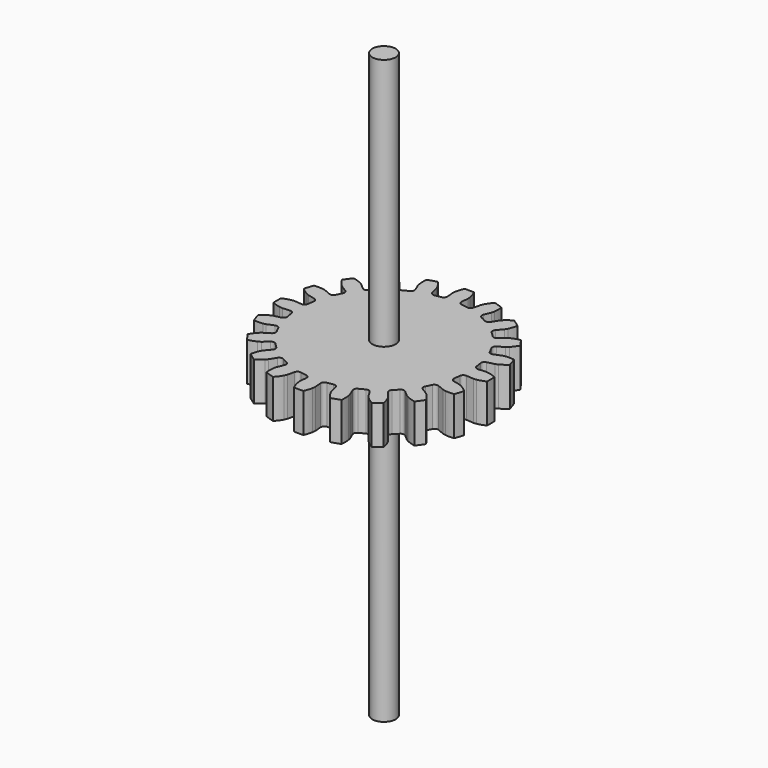
from build123d import *

# Parameters (mm, degrees)
PAD_DEPTH    = 10
SKETCH001_R  = 3.009992
PAD002_DEPTH = 75


with BuildPart() as pad:
    # InvoluteGear → Pad (new body)
    with BuildSketch(Plane.XY):
        with BuildLine():
            Line((22.719719, -1.829099), (24.571888, -1.977155))
            add(Edge.make_bspline(
                [(24.571888, -1.977155), (24.654648, -1.979657), (24.904537, -1.9789), (25.321937, -1.906817)],
                knots=[0, 0, 0, 0, 1, 1, 1, 1], degree=3))
            add(Edge.make_bspline(
                [(25.321937, -1.906817), (25.823029, -1.819379), (26.552046, -1.629661), (27.474158, -1.221762)],
                knots=[0, 0, 0, 0, 1, 1, 1, 1], degree=3))
            ThreePointArc((27.474158, -1.221762), (27.501312, 0), (27.474158, 1.221762))
            add(Edge.make_bspline(
                [(27.474158, 1.221762), (26.552046, 1.629661), (25.823029, 1.819379), (25.321937, 1.906817)],
                knots=[0, 0, 0, 0, 1, 1, 1, 1], degree=3))
            add(Edge.make_bspline(
                [(25.321937, 1.906817), (24.904537, 1.9789), (24.654648, 1.979657), (24.571888, 1.977155)],
                knots=[0, 0, 0, 0, 1, 1, 1, 1], degree=3))
            Line((24.571888, 1.977155), (22.719719, 1.829099))
            ThreePointArc((22.719719, 1.829099), (22.052006, 2.037028), (21.713984, 2.649251))
            ThreePointArc((21.713984, 2.649251), (21.605682, 3.422004), (21.469889, 4.190402))
            ThreePointArc((21.469889, 4.190402), (21.60218, 4.877116), (22.17296, 5.281202))
            Line((22.17296, 5.281202), (23.980228, 5.712745))
            add(Edge.make_bspline(
                [(23.980228, 5.712745), (24.059711, 5.73594), (24.297136, 5.813879), (24.671832, 6.011418)],
                knots=[0, 0, 0, 0, 1, 1, 1, 1], degree=3))
            add(Edge.make_bspline(
                [(24.671832, 6.011418), (25.121379, 6.249423), (25.756089, 6.655134), (26.507023, 7.328017)],
                knots=[0, 0, 0, 0, 1, 1, 1, 1], degree=3))
            ThreePointArc((26.507023, 7.328017), (26.155302, 8.498373), (25.751932, 9.651947))
            add(Edge.make_bspline(
                [(25.751932, 9.651947), (24.748904, 9.754933), (23.996942, 9.710087), (23.493354, 9.6384)],
                knots=[0, 0, 0, 0, 1, 1, 1, 1], degree=3))
            add(Edge.make_bspline(
                [(23.493354, 9.6384), (23.074108, 9.577971), (22.836216, 9.501471), (22.758279, 9.473517)],
                knots=[0, 0, 0, 0, 1, 1, 1, 1], degree=3))
            Line((22.758279, 9.473517), (21.042514, 8.760356))
            ThreePointArc((21.042514, 8.760356), (20.343227, 8.751773), (19.832562, 9.229578))
            ThreePointArc((19.832562, 9.229578), (19.490768, 9.931042), (19.124173, 10.61987))
            ThreePointArc((19.124173, 10.61987), (19.037782, 11.313853), (19.455757, 11.874543))
            Line((19.455757, 11.874543), (21.041217, 12.843441))
            add(Edge.make_bspline(
                [(21.041217, 12.843441), (21.109642, 12.890063), (21.311362, 13.037556), (21.606677, 13.341214)],
                knots=[0, 0, 0, 0, 1, 1, 1, 1], degree=3))
            add(Edge.make_bspline(
                [(21.606677, 13.341214), (21.960674, 13.706488), (22.438947, 14.288478), (22.945195, 15.160479)],
                knots=[0, 0, 0, 0, 1, 1, 1, 1], degree=3))
            ThreePointArc((22.945195, 15.160479), (22.249029, 16.164865), (21.508927, 17.137331))
            add(Edge.make_bspline(
                [(21.508927, 17.137331), (20.523166, 16.925324), (19.821866, 16.650304), (19.365078, 16.426509)],
                knots=[0, 0, 0, 0, 1, 1, 1, 1], degree=3))
            add(Edge.make_bspline(
                [(19.365078, 16.426509), (18.985025, 16.239484), (18.782417, 16.093214), (18.716932, 16.042545)],
                knots=[0, 0, 0, 0, 1, 1, 1, 1], degree=3))
            Line((18.716932, 16.042545), (17.305521, 14.834088))
            ThreePointArc((17.305521, 14.834088), (16.643112, 14.609834), (16.009791, 14.906449))
            ThreePointArc((16.009791, 14.906449), (15.467961, 15.467961), (14.906449, 16.009791))
            ThreePointArc((14.906449, 16.009791), (14.609834, 16.643112), (14.834088, 17.305521))
            Line((14.834088, 17.305521), (16.042545, 18.716932))
            add(Edge.make_bspline(
                [(16.042545, 18.716932), (16.093214, 18.782417), (16.239484, 18.985025), (16.426509, 19.365078)],
                knots=[0, 0, 0, 0, 1, 1, 1, 1], degree=3))
            add(Edge.make_bspline(
                [(16.426509, 19.365078), (16.650304, 19.821866), (16.925324, 20.523166), (17.137331, 21.508927)],
                knots=[0, 0, 0, 0, 1, 1, 1, 1], degree=3))
            ThreePointArc((17.137331, 21.508927), (16.164865, 22.249029), (15.160479, 22.945195))
            add(Edge.make_bspline(
                [(15.160479, 22.945195), (14.288478, 22.438947), (13.706488, 21.960674), (13.341214, 21.606677)],
                knots=[0, 0, 0, 0, 1, 1, 1, 1], degree=3))
            add(Edge.make_bspline(
                [(13.341214, 21.606677), (13.037556, 21.311362), (12.890063, 21.109642), (12.843441, 21.041217)],
                knots=[0, 0, 0, 0, 1, 1, 1, 1], degree=3))
            Line((12.843441, 21.041217), (11.874543, 19.455757))
            ThreePointArc((11.874543, 19.455757), (11.313853, 19.037782), (10.61987, 19.124173))
            ThreePointArc((10.61987, 19.124173), (9.931042, 19.490768), (9.229578, 19.832562))
            ThreePointArc((9.229578, 19.832562), (8.751773, 20.343227), (8.760356, 21.042514))
            Line((8.760356, 21.042514), (9.473517, 22.758279))
            add(Edge.make_bspline(
                [(9.473517, 22.758279), (9.501471, 22.836216), (9.577971, 23.074108), (9.6384, 23.493354)],
                knots=[0, 0, 0, 0, 1, 1, 1, 1], degree=3))
            add(Edge.make_bspline(
                [(9.6384, 23.493354), (9.710087, 23.996942), (9.754933, 24.748904), (9.651947, 25.751932)],
                knots=[0, 0, 0, 0, 1, 1, 1, 1], degree=3))
            ThreePointArc((9.651947, 25.751932), (8.498373, 26.155302), (7.328017, 26.507023))
            add(Edge.make_bspline(
                [(7.328017, 26.507023), (6.655134, 25.756089), (6.249423, 25.121379), (6.011418, 24.671832)],
                knots=[0, 0, 0, 0, 1, 1, 1, 1], degree=3))
            add(Edge.make_bspline(
                [(6.011418, 24.671832), (5.813879, 24.297136), (5.73594, 24.059711), (5.712745, 23.980228)],
                knots=[0, 0, 0, 0, 1, 1, 1, 1], degree=3))
            Line((5.712745, 23.980228), (5.281202, 22.17296))
            ThreePointArc((5.281202, 22.17296), (4.877116, 21.60218), (4.190402, 21.469889))
            ThreePointArc((4.190402, 21.469889), (3.422004, 21.605682), (2.649251, 21.713984))
            ThreePointArc((2.649251, 21.713984), (2.037028, 22.052006), (1.829099, 22.719719))
            Line((1.829099, 22.719719), (1.977155, 24.571888))
            add(Edge.make_bspline(
                [(1.977155, 24.571888), (1.979657, 24.654648), (1.9789, 24.904537), (1.906817, 25.321937)],
                knots=[0, 0, 0, 0, 1, 1, 1, 1], degree=3))
            add(Edge.make_bspline(
                [(1.906817, 25.321937), (1.819379, 25.823029), (1.629661, 26.552046), (1.221762, 27.474158)],
                knots=[0, 0, 0, 0, 1, 1, 1, 1], degree=3))
            ThreePointArc((1.221762, 27.474158), (0, 27.501312), (-1.221762, 27.474158))
            add(Edge.make_bspline(
                [(-1.221762, 27.474158), (-1.629661, 26.552046), (-1.819379, 25.823029), (-1.906817, 25.321937)],
                knots=[0, 0, 0, 0, 1, 1, 1, 1], degree=3))
            add(Edge.make_bspline(
                [(-1.906817, 25.321937), (-1.9789, 24.904537), (-1.979657, 24.654648), (-1.977155, 24.571888)],
                knots=[0, 0, 0, 0, 1, 1, 1, 1], degree=3))
            Line((-1.977155, 24.571888), (-1.829099, 22.719719))
            ThreePointArc((-1.829099, 22.719719), (-2.037028, 22.052006), (-2.649251, 21.713984))
            ThreePointArc((-2.649251, 21.713984), (-3.422004, 21.605682), (-4.190402, 21.469889))
            ThreePointArc((-4.190402, 21.469889), (-4.877116, 21.60218), (-5.281202, 22.17296))
            Line((-5.281202, 22.17296), (-5.712745, 23.980228))
            add(Edge.make_bspline(
                [(-5.712745, 23.980228), (-5.73594, 24.059711), (-5.813879, 24.297136), (-6.011418, 24.671832)],
                knots=[0, 0, 0, 0, 1, 1, 1, 1], degree=3))
            add(Edge.make_bspline(
                [(-6.011418, 24.671832), (-6.249423, 25.121379), (-6.655134, 25.756089), (-7.328017, 26.507023)],
                knots=[0, 0, 0, 0, 1, 1, 1, 1], degree=3))
            ThreePointArc((-7.328017, 26.507023), (-8.498373, 26.155302), (-9.651947, 25.751932))
            add(Edge.make_bspline(
                [(-9.651947, 25.751932), (-9.754933, 24.748904), (-9.710087, 23.996942), (-9.6384, 23.493354)],
                knots=[0, 0, 0, 0, 1, 1, 1, 1], degree=3))
            add(Edge.make_bspline(
                [(-9.6384, 23.493354), (-9.577971, 23.074108), (-9.501471, 22.836216), (-9.473517, 22.758279)],
                knots=[0, 0, 0, 0, 1, 1, 1, 1], degree=3))
            Line((-9.473517, 22.758279), (-8.760356, 21.042514))
            ThreePointArc((-8.760356, 21.042514), (-8.751773, 20.343227), (-9.229578, 19.832562))
            ThreePointArc((-9.229578, 19.832562), (-9.931042, 19.490768), (-10.61987, 19.124173))
            ThreePointArc((-10.61987, 19.124173), (-11.313853, 19.037782), (-11.874543, 19.455757))
            Line((-11.874543, 19.455757), (-12.843441, 21.041217))
            add(Edge.make_bspline(
                [(-12.843441, 21.041217), (-12.890063, 21.109642), (-13.037556, 21.311362), (-13.341214, 21.606677)],
                knots=[0, 0, 0, 0, 1, 1, 1, 1], degree=3))
            add(Edge.make_bspline(
                [(-13.341214, 21.606677), (-13.706488, 21.960674), (-14.288478, 22.438947), (-15.160479, 22.945195)],
                knots=[0, 0, 0, 0, 1, 1, 1, 1], degree=3))
            ThreePointArc((-15.160479, 22.945195), (-16.164865, 22.249029), (-17.137331, 21.508927))
            add(Edge.make_bspline(
                [(-17.137331, 21.508927), (-16.925324, 20.523166), (-16.650304, 19.821866), (-16.426509, 19.365078)],
                knots=[0, 0, 0, 0, 1, 1, 1, 1], degree=3))
            add(Edge.make_bspline(
                [(-16.426509, 19.365078), (-16.239484, 18.985025), (-16.093214, 18.782417), (-16.042545, 18.716932)],
                knots=[0, 0, 0, 0, 1, 1, 1, 1], degree=3))
            Line((-16.042545, 18.716932), (-14.834088, 17.305521))
            ThreePointArc((-14.834088, 17.305521), (-14.609834, 16.643112), (-14.906449, 16.009791))
            ThreePointArc((-14.906449, 16.009791), (-15.467961, 15.467961), (-16.009791, 14.906449))
            ThreePointArc((-16.009791, 14.906449), (-16.643112, 14.609834), (-17.305521, 14.834088))
            Line((-17.305521, 14.834088), (-18.716932, 16.042545))
            add(Edge.make_bspline(
                [(-18.716932, 16.042545), (-18.782417, 16.093214), (-18.985025, 16.239484), (-19.365078, 16.426509)],
                knots=[0, 0, 0, 0, 1, 1, 1, 1], degree=3))
            add(Edge.make_bspline(
                [(-19.365078, 16.426509), (-19.821866, 16.650304), (-20.523166, 16.925324), (-21.508927, 17.137331)],
                knots=[0, 0, 0, 0, 1, 1, 1, 1], degree=3))
            ThreePointArc((-21.508927, 17.137331), (-22.249029, 16.164865), (-22.945195, 15.160479))
            add(Edge.make_bspline(
                [(-22.945195, 15.160479), (-22.438947, 14.288478), (-21.960674, 13.706488), (-21.606677, 13.341214)],
                knots=[0, 0, 0, 0, 1, 1, 1, 1], degree=3))
            add(Edge.make_bspline(
                [(-21.606677, 13.341214), (-21.311362, 13.037556), (-21.109642, 12.890063), (-21.041217, 12.843441)],
                knots=[0, 0, 0, 0, 1, 1, 1, 1], degree=3))
            Line((-21.041217, 12.843441), (-19.455757, 11.874543))
            ThreePointArc((-19.455757, 11.874543), (-19.037782, 11.313853), (-19.124173, 10.61987))
            ThreePointArc((-19.124173, 10.61987), (-19.490768, 9.931042), (-19.832562, 9.229578))
            ThreePointArc((-19.832562, 9.229578), (-20.343227, 8.751773), (-21.042514, 8.760356))
            Line((-21.042514, 8.760356), (-22.758279, 9.473517))
            add(Edge.make_bspline(
                [(-22.758279, 9.473517), (-22.836216, 9.501471), (-23.074108, 9.577971), (-23.493354, 9.6384)],
                knots=[0, 0, 0, 0, 1, 1, 1, 1], degree=3))
            add(Edge.make_bspline(
                [(-23.493354, 9.6384), (-23.996942, 9.710087), (-24.748904, 9.754933), (-25.751932, 9.651947)],
                knots=[0, 0, 0, 0, 1, 1, 1, 1], degree=3))
            ThreePointArc((-25.751932, 9.651947), (-26.155302, 8.498373), (-26.507023, 7.328017))
            add(Edge.make_bspline(
                [(-26.507023, 7.328017), (-25.756089, 6.655134), (-25.121379, 6.249423), (-24.671832, 6.011418)],
                knots=[0, 0, 0, 0, 1, 1, 1, 1], degree=3))
            add(Edge.make_bspline(
                [(-24.671832, 6.011418), (-24.297136, 5.813879), (-24.059711, 5.73594), (-23.980228, 5.712745)],
                knots=[0, 0, 0, 0, 1, 1, 1, 1], degree=3))
            Line((-23.980228, 5.712745), (-22.17296, 5.281202))
            ThreePointArc((-22.17296, 5.281202), (-21.60218, 4.877116), (-21.469889, 4.190402))
            ThreePointArc((-21.469889, 4.190402), (-21.605682, 3.422004), (-21.713984, 2.649251))
            ThreePointArc((-21.713984, 2.649251), (-22.052006, 2.037028), (-22.719719, 1.829099))
            Line((-22.719719, 1.829099), (-24.571888, 1.977155))
            add(Edge.make_bspline(
                [(-24.571888, 1.977155), (-24.654648, 1.979657), (-24.904537, 1.9789), (-25.321937, 1.906817)],
                knots=[0, 0, 0, 0, 1, 1, 1, 1], degree=3))
            add(Edge.make_bspline(
                [(-25.321937, 1.906817), (-25.823029, 1.819379), (-26.552046, 1.629661), (-27.474158, 1.221762)],
                knots=[0, 0, 0, 0, 1, 1, 1, 1], degree=3))
            ThreePointArc((-27.474158, 1.221762), (-27.501312, 0), (-27.474158, -1.221762))
            add(Edge.make_bspline(
                [(-27.474158, -1.221762), (-26.552046, -1.629661), (-25.823029, -1.819379), (-25.321937, -1.906817)],
                knots=[0, 0, 0, 0, 1, 1, 1, 1], degree=3))
            add(Edge.make_bspline(
                [(-25.321937, -1.906817), (-24.904537, -1.9789), (-24.654648, -1.979657), (-24.571888, -1.977155)],
                knots=[0, 0, 0, 0, 1, 1, 1, 1], degree=3))
            Line((-24.571888, -1.977155), (-22.719719, -1.829099))
            ThreePointArc((-22.719719, -1.829099), (-22.052006, -2.037028), (-21.713984, -2.649251))
            ThreePointArc((-21.713984, -2.649251), (-21.605682, -3.422004), (-21.469889, -4.190402))
            ThreePointArc((-21.469889, -4.190402), (-21.60218, -4.877116), (-22.17296, -5.281202))
            Line((-22.17296, -5.281202), (-23.980228, -5.712745))
            add(Edge.make_bspline(
                [(-23.980228, -5.712745), (-24.059711, -5.73594), (-24.297136, -5.813879), (-24.671832, -6.011418)],
                knots=[0, 0, 0, 0, 1, 1, 1, 1], degree=3))
            add(Edge.make_bspline(
                [(-24.671832, -6.011418), (-25.121379, -6.249423), (-25.756089, -6.655134), (-26.507023, -7.328017)],
                knots=[0, 0, 0, 0, 1, 1, 1, 1], degree=3))
            ThreePointArc((-26.507023, -7.328017), (-26.155302, -8.498373), (-25.751932, -9.651947))
            add(Edge.make_bspline(
                [(-25.751932, -9.651947), (-24.748904, -9.754933), (-23.996942, -9.710087), (-23.493354, -9.6384)],
                knots=[0, 0, 0, 0, 1, 1, 1, 1], degree=3))
            add(Edge.make_bspline(
                [(-23.493354, -9.6384), (-23.074108, -9.577971), (-22.836216, -9.501471), (-22.758279, -9.473517)],
                knots=[0, 0, 0, 0, 1, 1, 1, 1], degree=3))
            Line((-22.758279, -9.473517), (-21.042514, -8.760356))
            ThreePointArc((-21.042514, -8.760356), (-20.343227, -8.751773), (-19.832562, -9.229578))
            ThreePointArc((-19.832562, -9.229578), (-19.490768, -9.931042), (-19.124173, -10.61987))
            ThreePointArc((-19.124173, -10.61987), (-19.037782, -11.313853), (-19.455757, -11.874543))
            Line((-19.455757, -11.874543), (-21.041217, -12.843441))
            add(Edge.make_bspline(
                [(-21.041217, -12.843441), (-21.109642, -12.890063), (-21.311362, -13.037556), (-21.606677, -13.341214)],
                knots=[0, 0, 0, 0, 1, 1, 1, 1], degree=3))
            add(Edge.make_bspline(
                [(-21.606677, -13.341214), (-21.960674, -13.706488), (-22.438947, -14.288478), (-22.945195, -15.160479)],
                knots=[0, 0, 0, 0, 1, 1, 1, 1], degree=3))
            ThreePointArc((-22.945195, -15.160479), (-22.249029, -16.164865), (-21.508927, -17.137331))
            add(Edge.make_bspline(
                [(-21.508927, -17.137331), (-20.523166, -16.925324), (-19.821866, -16.650304), (-19.365078, -16.426509)],
                knots=[0, 0, 0, 0, 1, 1, 1, 1], degree=3))
            add(Edge.make_bspline(
                [(-19.365078, -16.426509), (-18.985025, -16.239484), (-18.782417, -16.093214), (-18.716932, -16.042545)],
                knots=[0, 0, 0, 0, 1, 1, 1, 1], degree=3))
            Line((-18.716932, -16.042545), (-17.305521, -14.834088))
            ThreePointArc((-17.305521, -14.834088), (-16.643112, -14.609834), (-16.009791, -14.906449))
            ThreePointArc((-16.009791, -14.906449), (-15.467961, -15.467961), (-14.906449, -16.009791))
            ThreePointArc((-14.906449, -16.009791), (-14.609834, -16.643112), (-14.834088, -17.305521))
            Line((-14.834088, -17.305521), (-16.042545, -18.716932))
            add(Edge.make_bspline(
                [(-16.042545, -18.716932), (-16.093214, -18.782417), (-16.239484, -18.985025), (-16.426509, -19.365078)],
                knots=[0, 0, 0, 0, 1, 1, 1, 1], degree=3))
            add(Edge.make_bspline(
                [(-16.426509, -19.365078), (-16.650304, -19.821866), (-16.925324, -20.523166), (-17.137331, -21.508927)],
                knots=[0, 0, 0, 0, 1, 1, 1, 1], degree=3))
            ThreePointArc((-17.137331, -21.508927), (-16.164865, -22.249029), (-15.160479, -22.945195))
            add(Edge.make_bspline(
                [(-15.160479, -22.945195), (-14.288478, -22.438947), (-13.706488, -21.960674), (-13.341214, -21.606677)],
                knots=[0, 0, 0, 0, 1, 1, 1, 1], degree=3))
            add(Edge.make_bspline(
                [(-13.341214, -21.606677), (-13.037556, -21.311362), (-12.890063, -21.109642), (-12.843441, -21.041217)],
                knots=[0, 0, 0, 0, 1, 1, 1, 1], degree=3))
            Line((-12.843441, -21.041217), (-11.874543, -19.455757))
            ThreePointArc((-11.874543, -19.455757), (-11.313853, -19.037782), (-10.61987, -19.124173))
            ThreePointArc((-10.61987, -19.124173), (-9.931042, -19.490768), (-9.229578, -19.832562))
            ThreePointArc((-9.229578, -19.832562), (-8.751773, -20.343227), (-8.760356, -21.042514))
            Line((-8.760356, -21.042514), (-9.473517, -22.758279))
            add(Edge.make_bspline(
                [(-9.473517, -22.758279), (-9.501471, -22.836216), (-9.577971, -23.074108), (-9.6384, -23.493354)],
                knots=[0, 0, 0, 0, 1, 1, 1, 1], degree=3))
            add(Edge.make_bspline(
                [(-9.6384, -23.493354), (-9.710087, -23.996942), (-9.754933, -24.748904), (-9.651947, -25.751932)],
                knots=[0, 0, 0, 0, 1, 1, 1, 1], degree=3))
            ThreePointArc((-9.651947, -25.751932), (-8.498373, -26.155302), (-7.328017, -26.507023))
            add(Edge.make_bspline(
                [(-7.328017, -26.507023), (-6.655134, -25.756089), (-6.249423, -25.121379), (-6.011418, -24.671832)],
                knots=[0, 0, 0, 0, 1, 1, 1, 1], degree=3))
            add(Edge.make_bspline(
                [(-6.011418, -24.671832), (-5.813879, -24.297136), (-5.73594, -24.059711), (-5.712745, -23.980228)],
                knots=[0, 0, 0, 0, 1, 1, 1, 1], degree=3))
            Line((-5.712745, -23.980228), (-5.281202, -22.17296))
            ThreePointArc((-5.281202, -22.17296), (-4.877116, -21.60218), (-4.190402, -21.469889))
            ThreePointArc((-4.190402, -21.469889), (-3.422004, -21.605682), (-2.649251, -21.713984))
            ThreePointArc((-2.649251, -21.713984), (-2.037028, -22.052006), (-1.829099, -22.719719))
            Line((-1.829099, -22.719719), (-1.977155, -24.571888))
            add(Edge.make_bspline(
                [(-1.977155, -24.571888), (-1.979657, -24.654648), (-1.9789, -24.904537), (-1.906817, -25.321937)],
                knots=[0, 0, 0, 0, 1, 1, 1, 1], degree=3))
            add(Edge.make_bspline(
                [(-1.906817, -25.321937), (-1.819379, -25.823029), (-1.629661, -26.552046), (-1.221762, -27.474158)],
                knots=[0, 0, 0, 0, 1, 1, 1, 1], degree=3))
            ThreePointArc((-1.221762, -27.474158), (0, -27.501312), (1.221762, -27.474158))
            add(Edge.make_bspline(
                [(1.221762, -27.474158), (1.629661, -26.552046), (1.819379, -25.823029), (1.906817, -25.321937)],
                knots=[0, 0, 0, 0, 1, 1, 1, 1], degree=3))
            add(Edge.make_bspline(
                [(1.906817, -25.321937), (1.9789, -24.904537), (1.979657, -24.654648), (1.977155, -24.571888)],
                knots=[0, 0, 0, 0, 1, 1, 1, 1], degree=3))
            Line((1.977155, -24.571888), (1.829099, -22.719719))
            ThreePointArc((1.829099, -22.719719), (2.037028, -22.052006), (2.649251, -21.713984))
            ThreePointArc((2.649251, -21.713984), (3.422004, -21.605682), (4.190402, -21.469889))
            ThreePointArc((4.190402, -21.469889), (4.877116, -21.60218), (5.281202, -22.17296))
            Line((5.281202, -22.17296), (5.712745, -23.980228))
            add(Edge.make_bspline(
                [(5.712745, -23.980228), (5.73594, -24.059711), (5.813879, -24.297136), (6.011418, -24.671832)],
                knots=[0, 0, 0, 0, 1, 1, 1, 1], degree=3))
            add(Edge.make_bspline(
                [(6.011418, -24.671832), (6.249423, -25.121379), (6.655134, -25.756089), (7.328017, -26.507023)],
                knots=[0, 0, 0, 0, 1, 1, 1, 1], degree=3))
            ThreePointArc((7.328017, -26.507023), (8.498373, -26.155302), (9.651947, -25.751932))
            add(Edge.make_bspline(
                [(9.651947, -25.751932), (9.754933, -24.748904), (9.710087, -23.996942), (9.6384, -23.493354)],
                knots=[0, 0, 0, 0, 1, 1, 1, 1], degree=3))
            add(Edge.make_bspline(
                [(9.6384, -23.493354), (9.577971, -23.074108), (9.501471, -22.836216), (9.473517, -22.758279)],
                knots=[0, 0, 0, 0, 1, 1, 1, 1], degree=3))
            Line((9.473517, -22.758279), (8.760356, -21.042514))
            ThreePointArc((8.760356, -21.042514), (8.751773, -20.343227), (9.229578, -19.832562))
            ThreePointArc((9.229578, -19.832562), (9.931042, -19.490768), (10.61987, -19.124173))
            ThreePointArc((10.61987, -19.124173), (11.313853, -19.037782), (11.874543, -19.455757))
            Line((11.874543, -19.455757), (12.843441, -21.041217))
            add(Edge.make_bspline(
                [(12.843441, -21.041217), (12.890063, -21.109642), (13.037556, -21.311362), (13.341214, -21.606677)],
                knots=[0, 0, 0, 0, 1, 1, 1, 1], degree=3))
            add(Edge.make_bspline(
                [(13.341214, -21.606677), (13.706488, -21.960674), (14.288478, -22.438947), (15.160479, -22.945195)],
                knots=[0, 0, 0, 0, 1, 1, 1, 1], degree=3))
            ThreePointArc((15.160479, -22.945195), (16.164865, -22.249029), (17.137331, -21.508927))
            add(Edge.make_bspline(
                [(17.137331, -21.508927), (16.925324, -20.523166), (16.650304, -19.821866), (16.426509, -19.365078)],
                knots=[0, 0, 0, 0, 1, 1, 1, 1], degree=3))
            add(Edge.make_bspline(
                [(16.426509, -19.365078), (16.239484, -18.985025), (16.093214, -18.782417), (16.042545, -18.716932)],
                knots=[0, 0, 0, 0, 1, 1, 1, 1], degree=3))
            Line((16.042545, -18.716932), (14.834088, -17.305521))
            ThreePointArc((14.834088, -17.305521), (14.609834, -16.643112), (14.906449, -16.009791))
            ThreePointArc((14.906449, -16.009791), (15.467961, -15.467961), (16.009791, -14.906449))
            ThreePointArc((16.009791, -14.906449), (16.643112, -14.609834), (17.305521, -14.834088))
            Line((17.305521, -14.834088), (18.716932, -16.042545))
            add(Edge.make_bspline(
                [(18.716932, -16.042545), (18.782417, -16.093214), (18.985025, -16.239484), (19.365078, -16.426509)],
                knots=[0, 0, 0, 0, 1, 1, 1, 1], degree=3))
            add(Edge.make_bspline(
                [(19.365078, -16.426509), (19.821866, -16.650304), (20.523166, -16.925324), (21.508927, -17.137331)],
                knots=[0, 0, 0, 0, 1, 1, 1, 1], degree=3))
            ThreePointArc((21.508927, -17.137331), (22.249029, -16.164865), (22.945195, -15.160479))
            add(Edge.make_bspline(
                [(22.945195, -15.160479), (22.438947, -14.288478), (21.960674, -13.706488), (21.606677, -13.341214)],
                knots=[0, 0, 0, 0, 1, 1, 1, 1], degree=3))
            add(Edge.make_bspline(
                [(21.606677, -13.341214), (21.311362, -13.037556), (21.109642, -12.890063), (21.041217, -12.843441)],
                knots=[0, 0, 0, 0, 1, 1, 1, 1], degree=3))
            Line((21.041217, -12.843441), (19.455757, -11.874543))
            ThreePointArc((19.455757, -11.874543), (19.037782, -11.313853), (19.124173, -10.61987))
            ThreePointArc((19.124173, -10.61987), (19.490768, -9.931042), (19.832562, -9.229578))
            ThreePointArc((19.832562, -9.229578), (20.343227, -8.751773), (21.042514, -8.760356))
            Line((21.042514, -8.760356), (22.758279, -9.473517))
            add(Edge.make_bspline(
                [(22.758279, -9.473517), (22.836216, -9.501471), (23.074108, -9.577971), (23.493354, -9.6384)],
                knots=[0, 0, 0, 0, 1, 1, 1, 1], degree=3))
            add(Edge.make_bspline(
                [(23.493354, -9.6384), (23.996942, -9.710087), (24.748904, -9.754933), (25.751932, -9.651947)],
                knots=[0, 0, 0, 0, 1, 1, 1, 1], degree=3))
            ThreePointArc((25.751932, -9.651947), (26.155302, -8.498373), (26.507023, -7.328017))
            add(Edge.make_bspline(
                [(26.507023, -7.328017), (25.756089, -6.655134), (25.121379, -6.249423), (24.671832, -6.011418)],
                knots=[0, 0, 0, 0, 1, 1, 1, 1], degree=3))
            add(Edge.make_bspline(
                [(24.671832, -6.011418), (24.297136, -5.813879), (24.059711, -5.73594), (23.980228, -5.712745)],
                knots=[0, 0, 0, 0, 1, 1, 1, 1], degree=3))
            Line((23.980228, -5.712745), (22.17296, -5.281202))
            ThreePointArc((22.17296, -5.281202), (21.60218, -4.877116), (21.469889, -4.190402))
            ThreePointArc((21.469889, -4.190402), (21.605682, -3.422004), (21.713984, -2.649251))
            ThreePointArc((21.713984, -2.649251), (22.052006, -2.037028), (22.719719, -1.829099))
        make_face()
    extrude(amount=PAD_DEPTH)


with BuildPart() as fusion:
    # Sketch001 → Pad002 (new body, symmetric)
    with BuildSketch(Plane(origin=(0, 0, 0), x_dir=(1, 0, 0), z_dir=(0, 0, -1))):
        Circle(SKETCH001_R)
    extrude(amount=PAD002_DEPTH, both=True)

    # Fusion: union Pad
    add(pad.part)


solid = fusion.part
